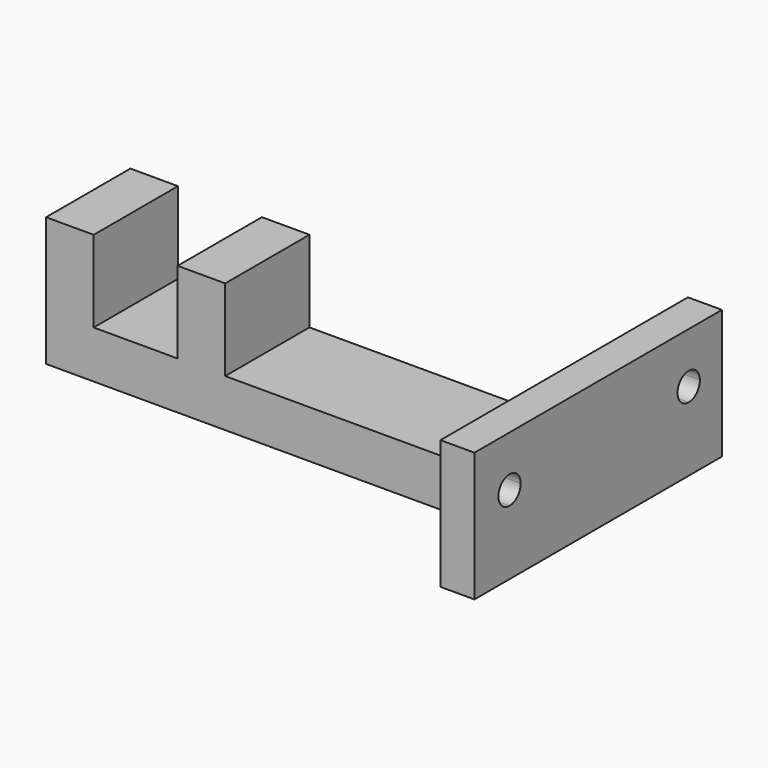
from build123d import *

# Parameters (mm, degrees)
F0_W     = 7
F0_H     = 15.5
F0_W_2   = 12.34
F0_W_3   = 43.66
F0_W_4   = 5
F1_DEPTH = 7
F0_H_2   = 15
F2_DEPTH = 19
F4_DEPTH = 15


with BuildPart() as f1:
    # F0 (on Top) → F1 (new body)
    with BuildSketch(Plane.XY):
        with Locations((-94.8272068564, 0)):
            Rectangle(F0_W, F0_H)
        with Locations((-85.1572068564, 0)):
            Rectangle(F0_W_2, F0_H)
        with Locations((-75.4872068564, 0)):
            Rectangle(F0_W, F0_H)
        with Locations((-50.1572068564, 0)):
            Rectangle(F0_W_3, F0_H)
        with Locations((-25.8272068564, 0)):
            Rectangle(F0_W_4, F0_H)
    extrude(amount=F1_DEPTH)

    # F0 (on Top) → F2 (join)
    with BuildSketch(Plane.XY):
        with Locations((-94.8272068564, 0)):
            Rectangle(F0_W, F0_H)
        with Locations((-75.4872068564, 0)):
            Rectangle(F0_W, F0_H)
        with Locations((-25.8272068564, 0)):
            Rectangle(F0_W_4, F0_H)
        with Locations((-25.8272068564, 15.25)):
            Rectangle(F0_W_4, F0_H_2)
        with Locations((-25.8272068564, 0)):
            Rectangle(F0_W_4, F0_H)
        with Locations((-25.8272068564, -15.25)):
            Rectangle(F0_W_4, F0_H_2)
    extrude(amount=F2_DEPTH)

    # F3 (on face) → F4 (cut)
    with BuildSketch(Plane.YZ.offset(-23.3272068564)):
        with BuildLine():
            ThreePointArc((-14.2406609476, 11.55), (-16.2906609476, 13.6), (-18.3406609476, 11.55))
            Line((-18.3406609476, 11.55), (-14.2406609476, 11.55))
        make_face()
        with BuildLine():
            ThreePointArc((-18.3406609476, 11.55), (-17.740229849, 10.1004310986), (-16.2906609476, 9.5))
            ThreePointArc((-16.2906609476, 9.5), (-14.8410920461, 10.1004310986), (-14.2406609476, 11.55))
            Line((-14.2406609476, 11.55), (-18.3406609476, 11.55))
        make_face()
        with BuildLine():
            ThreePointArc((18.6963237256, 11.55), (16.6463237256, 13.6), (14.5963237256, 11.55))
            Line((14.5963237256, 11.55), (18.6963237256, 11.55))
        make_face()
        with BuildLine():
            ThreePointArc((14.5963237256, 11.55), (15.1967548241, 10.1004310986), (16.6463237256, 9.5))
            ThreePointArc((16.6463237256, 9.5), (18.095892627, 10.1004310986), (18.6963237256, 11.55))
            Line((18.6963237256, 11.55), (14.5963237256, 11.55))
        make_face()
    extrude(amount=-F4_DEPTH, mode=Mode.SUBTRACT)


solid = f1.part
